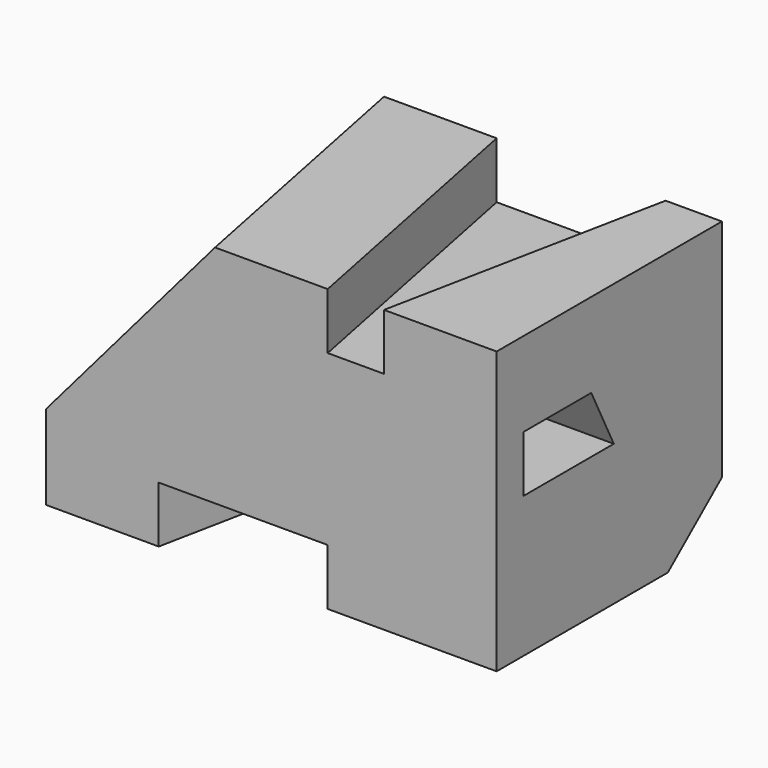
from build123d import *

# Parameters (mm, degrees)
F0_W     = 80
F0_H     = 50
F1_DEPTH = 50
F3_DEPTH = 10
F5_DEPTH = 10
F7_DEPTH = 25
F9_DEPTH = 15


with BuildPart() as f1:
    # F0 (on Top) → F1 (new body)
    with BuildSketch(Plane.XY):
        with Locations((40, 25)):
            Rectangle(F0_W, F0_H)
    extrude(amount=F1_DEPTH)

    # F2 (on face) → F3 (cut)
    with BuildSketch(Plane.XY.offset(50)):
        Polygon((70, 50), (40, 50), (50, 0), (60, 0), align=None)
    extrude(amount=-F3_DEPTH, mode=Mode.SUBTRACT)

    # F4 (on face) → F5 (cut)
    with BuildSketch(Plane(origin=(0, 0, 0), x_dir=(1, 0, 0), z_dir=(0, 0, -1))):
        Polygon((50, 0), (20, 0), (30, -50), (40, -50), align=None)
    extrude(amount=-F5_DEPTH, mode=Mode.SUBTRACT)

    # F6 (on face) → F7 (cut)
    with BuildSketch(Plane.YZ.offset(80)):
        Polygon((21, 35), (6, 35), (6, 25), (26, 25), align=None)
    extrude(amount=-F7_DEPTH, mode=Mode.SUBTRACT)

    # F8 (on face) → F9 (cut)
    with BuildSketch(Plane.YZ.offset(80)):
        Polygon((50, 0), (50, 10), (38, 0), align=None)
    extrude(amount=-F9_DEPTH, mode=Mode.SUBTRACT)

    # F12: sweep along a path in F10
    with BuildLine(Plane.XY.offset(50)) as f12_path:
        Line((20, 50), (30, 0))
    # F11 (on face) → F12 (sweep, cut)
    with BuildSketch(Plane.XZ):
        Polygon((0, 15), (30, 50), (0, 50), align=None)
    sweep(path=f12_path.line, mode=Mode.SUBTRACT)


solid = f1.part
